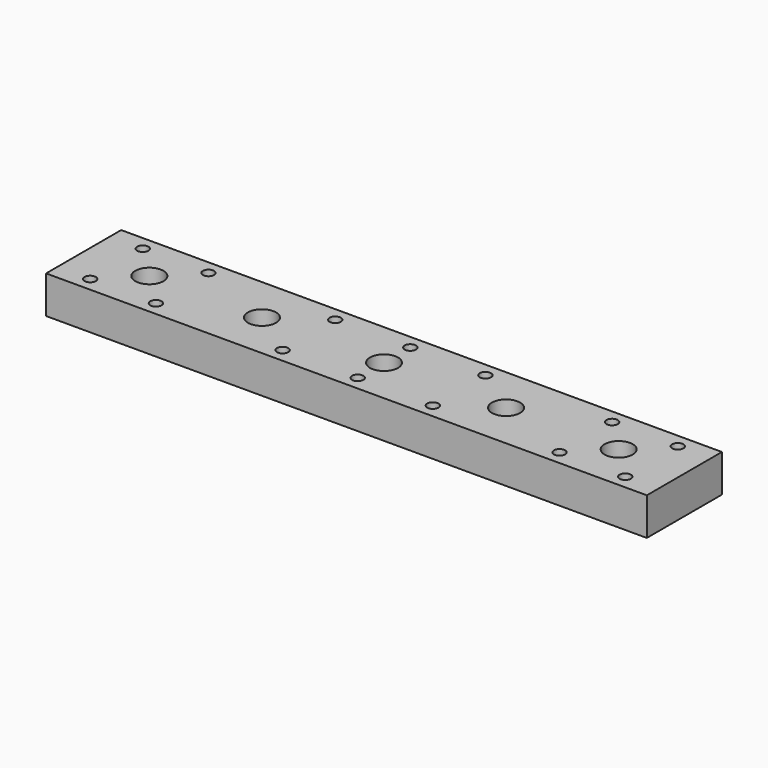
from build123d import *

# Parameters (mm, degrees)
F0_W     = 320
F0_H     = 50
F1_DEPTH = 20
F2_R     = 3
F2_R_2   = 4
F3_DEPTH = 20
F4_R     = 7.5
F5_DEPTH = 9
F6_R     = 5
F7_DEPTH = 7
F8_R     = 3
F9_DEPTH = 10


with BuildPart() as f1:
    # F0 (on Top) → F1 (new body)
    with BuildSketch(Plane.XY):
        with Locations((160, 25)):
            Rectangle(F0_W, F0_H)
    extrude(amount=F1_DEPTH)

    # F2 (on face) → F3 (cut)
    with BuildSketch(Plane.XY.offset(20)):
        with Locations((17.5, 42.5)):
            Circle(F2_R)
        with Locations((17.5, 7.5)):
            Circle(F2_R)
        with Locations((52.5, 7.5)):
            Circle(F2_R)
        with Locations((52.5, 42.5)):
            Circle(F2_R)
        with Locations((35, 25)):
            Circle(F2_R_2)
        with Locations((95, 25)):
            Circle(F2_R_2)
        with Locations((160, 25)):
            Circle(F2_R_2)
        with Locations((225, 25)):
            Circle(F2_R_2)
        with Locations((285, 25)):
            Circle(F2_R_2)
        with Locations((267.5, 42.5)):
            Circle(F2_R)
        with Locations((302.5, 42.5)):
            Circle(F2_R)
        with Locations((302.5, 7.5)):
            Circle(F2_R)
        with Locations((267.5, 7.5)):
            Circle(F2_R)
    extrude(amount=-F3_DEPTH, mode=Mode.SUBTRACT)

    # F4 (on face) → F5 (cut)
    with BuildSketch(Plane.XY.offset(20)):
        with Locations((35, 25)):
            Circle(F4_R)
        with Locations((95, 25)):
            Circle(F4_R)
        with Locations((160, 25)):
            Circle(F4_R)
        with Locations((225, 25)):
            Circle(F4_R)
        with Locations((285, 25)):
            Circle(F4_R)
    extrude(amount=-F5_DEPTH, mode=Mode.SUBTRACT)

    # F6 (on face) → F7 (cut)
    with BuildSketch(Plane(origin=(0, 0, 0), x_dir=(1, 0, 0), z_dir=(0, 0, -1))):
        with Locations((17.5, -7.5)):
            Circle(F6_R)
        with Locations((17.5, -42.5)):
            Circle(F6_R)
        with Locations((52.5, -42.5)):
            Circle(F6_R)
        with Locations((52.5, -7.5)):
            Circle(F6_R)
        with Locations((267.5, -7.5)):
            Circle(F6_R)
        with Locations((302.5, -7.5)):
            Circle(F6_R)
        with Locations((302.5, -42.5)):
            Circle(F6_R)
        with Locations((267.5, -42.5)):
            Circle(F6_R)
    extrude(amount=-F7_DEPTH, mode=Mode.SUBTRACT)

    # F8 (on face) → F9 (cut)
    with BuildSketch(Plane.XY.offset(20)):
        with Locations((120, 42.5)):
            Circle(F8_R)
        with Locations((120, 7.5)):
            Circle(F8_R)
        with Locations((160, 42.5)):
            Circle(F8_R)
        with Locations((160, 7.5)):
            Circle(F8_R)
        with Locations((200, 42.5)):
            Circle(F8_R)
        with Locations((200, 7.5)):
            Circle(F8_R)
    extrude(amount=-F9_DEPTH, mode=Mode.SUBTRACT)


solid = f1.part
